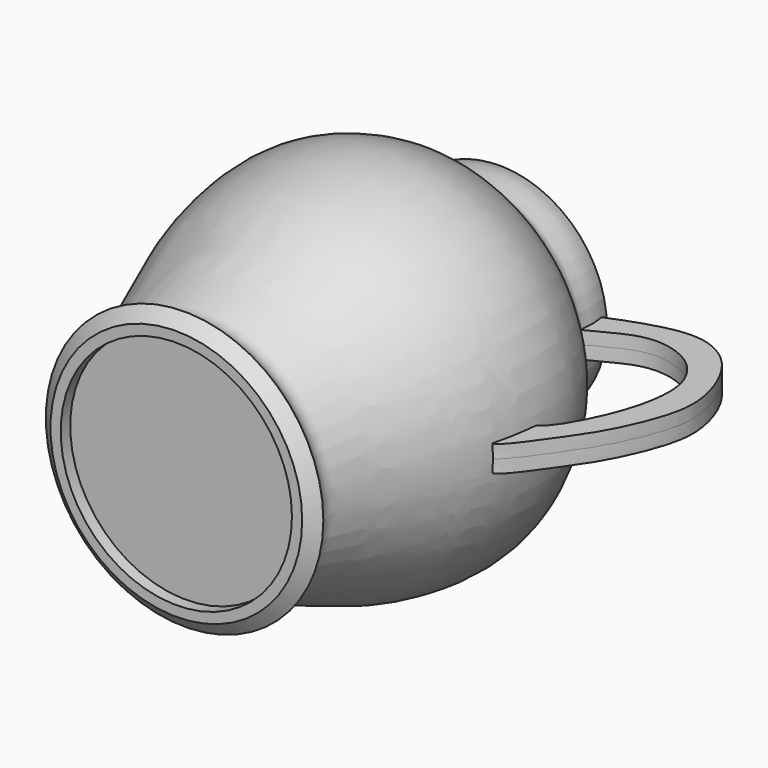
from build123d import *

# Parameters (mm, degrees)
F3_DEPTH = 7.5


with BuildPart() as f1:
    # F0 (on Top) → F1 (revolve)
    with BuildSketch(Plane.XY):
        with BuildLine():
            Line((36.8585549295, -30.0297066569), (36.8585549295, -36.2664498389))
            Line((36.8585549295, -36.2664498389), (103.2131239772, -36.2664498389))
            Line((103.2131239772, -36.2664498389), (103.2131239772, -43.075658381))
            Line((103.2131239772, -43.075658381), (109.0954020619, -43.075658381))
            Line((109.0954020619, -43.075658381), (116.49671942, -37.1546074748))
            add(Edge.make_bspline(
                [(116.49671942, -37.1546074748), (114.5704943629, -35.34290718), (111.0714486116, -32.0518991039), (109.0534039158, -26.8749563072), (109.9632386701, -20.7245139751), (114.5228554064, -6.9592064511), (120.5156403579, 10.1555063557), (132.8675766745, 40.1770613355), (138.5229680013, 56.4280482227), (143.6536653382, 83.3562260407), (142.7183439291, 105.8340302347), (136.6110067993, 123.3509437832), (127.5988487849, 140.4693704708), (111.1459184512, 154.8439488163), (103.62062693, 160.2860111179), (99.5055491717, 169.2105112609), (101.8932965401, 175.5059699541), (97.4733995456, 197.9788737462), (94.1352046386, 172.455514153), (94.017626293, 166.0312091108), (99.082915019, 157.173651007), (107.7874028821, 149.7316143297), (116.8151170609, 141.791990691), (124.3030642519, 133.5143753658), (134.3209058719, 112.7977525509), (135.1493069069, 89.6642608725), (136.5743274829, 76.211824056), (130.4862729924, 48.0026340056), (115.4353292714, 18.8198613179), (112.9682794371, 3.8231846939), (102.8998422542, -14.943929234), (103.4074090134, -22.5979285216), (102.9140687528, -27.7297196093), (104.4741272926, -30.0297066569)],
                knots=[0, 0, 0, 0, 0.0229732958, 0.0418579945, 0.0621706499, 0.0933016255, 0.13023538, 0.1774837345, 0.2132237278, 0.2564896926, 0.2964541042, 0.3319934007, 0.3691834836, 0.4079767458, 0.4337200064, 0.4578276583, 0.4818050039, 0.5117715427, 0.5450905911, 0.5690679367, 0.5943406396, 0.6231099972, 0.6518272923, 0.6796577669, 0.7196700893, 0.7597616884, 0.7903638981, 0.8351673107, 0.8831740495, 0.9167617877, 0.954288352, 0.9774082051, 1, 1, 1, 1], degree=3))
            Line((104.4741272926, -30.0297066569), (36.8585549295, -30.0297066569))
        make_face()
    revolve(axis=Axis((36.8585549295, -33.1480782479, 0), (0, 1, 0)))

    # F2 (on Top) → F3 (join, symmetric)
    with BuildSketch(Plane.XY):
        with BuildLine():
            add(Edge.make_bspline(
                [(97.7968424559, 167.0885533094), (100.0468405556, 168.0875619213), (105.4953364199, 170.5067169823), (120.0725492771, 179.006213218), (135.5666839022, 182.1631835085), (155.6668549896, 176.3024729988), (169.0652607847, 158.6398248877), (168.9091318135, 135.8356489644), (161.6288703277, 110.9042368496), (147.0436983331, 84.3058537876), (140.6005463441, 82.167711891), (138.3878588676, 81.4334377646)],
                knots=[0, 0, 0, 0, 0.0753696293, 0.1825117602, 0.2872598557, 0.4041831272, 0.5236270692, 0.6456228685, 0.784012438, 0.9258262145, 1, 1, 1, 1], degree=3))
            Line((138.3878588676, 81.4334377646), (138.3878588676, 69.0180808306))
            Line((138.3878588676, 69.0180808306), (135.4318112135, 60.741186142))
            add(Edge.make_bspline(
                [(135.4318112135, 60.741186142), (136.0647261993, 59.0228901816), (138.2314130208, 53.1458118033), (156.4224762916, 78.8291679954), (169.8026805515, 97.5301365976), (180.6163584989, 121.6534343232), (185.9718951839, 142.784092736), (180.9299542626, 165.1000659323), (169.8935185644, 184.7356659431), (152.2049541565, 195.7633043599), (130.3358732428, 195.3534818067), (109.1534184735, 187.474745567), (97.7968424559, 182.6680749655)],
                knots=[0, 0, 0, 0, 0.044666563, 0.1533378771, 0.2653670173, 0.3743210165, 0.4744691047, 0.5763412198, 0.6781247644, 0.7729972845, 0.8714791314, 1, 1, 1, 1], degree=3))
            Line((97.7968424559, 182.6680749655), (97.7968424559, 167.0885533094))
        make_face()
    extrude(amount=F3_DEPTH, both=True)


solid = f1.part
